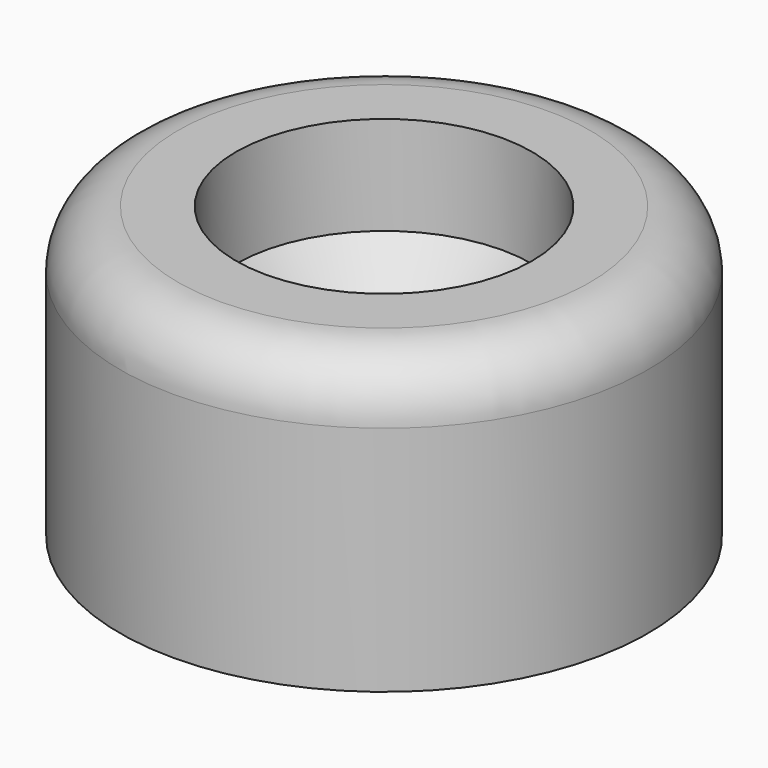
from build123d import *


with BuildPart() as f1:
    # F0 (on Right) → F1 (revolve)
    with BuildSketch(Plane.YZ):
        with BuildLine():
            Line((-9.1, 0), (-2.5, 0))
            Line((-2.5, 0), (-2.5, 4))
            Line((-2.5, 4), (-5.1, 6.6))
            Line((-5.1, 6.6), (-5.1, 10))
            Line((-5.1, 10), (-7.1, 10))
            ThreePointArc((-7.1, 10), (-8.514214, 9.414214), (-9.1, 8))
            Line((-9.1, 8), (-9.1, 0))
        make_face()
    revolve(axis=Axis((0, 0, 6.063), (0, 0, 1)))


solid = f1.part
